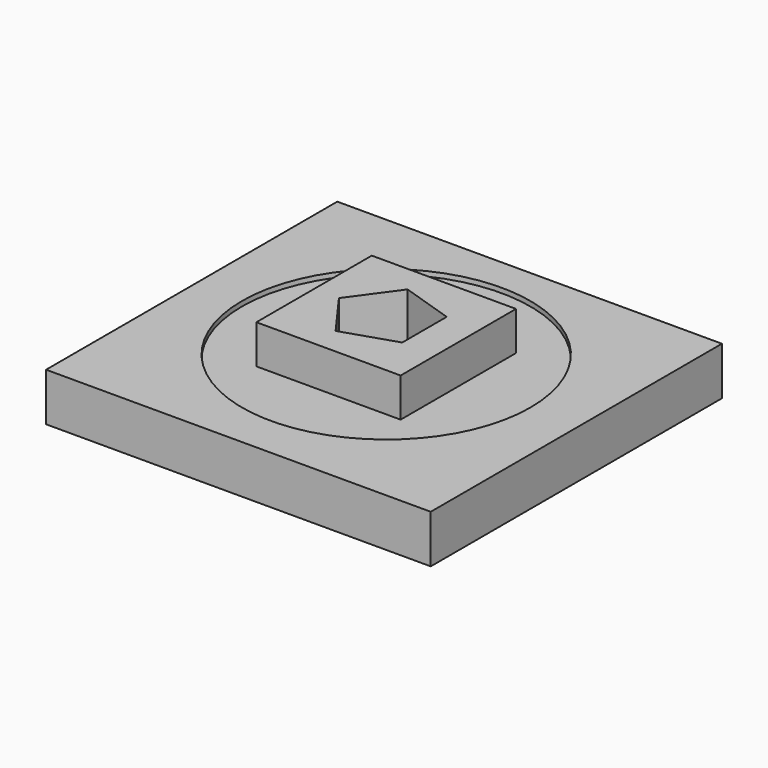
from build123d import *

# Parameters (mm, degrees)
F0_W     = 203.2
F0_H     = 192.284051628
F1_DEPTH = 25.4
F2_R     = 76.2
F3_DEPTH = 2.54
F4_W     = 76.2
F4_H     = 76.2
F5_DEPTH = 2.54
F7_DEPTH = 7.62
F8_DEPTH = 18


with BuildPart() as f1:
    # F0 (on Top) → F1 (new body)
    with BuildSketch(Plane.XY):
        with Locations((0.6476622075, -2.2640712559)):
            Rectangle(F0_W, F0_H)
    extrude(amount=F1_DEPTH)

    # F2 (on face) → F3 (cut)
    with BuildSketch(Plane.XY.offset(25.4)):
        Circle(F2_R)
    extrude(amount=-F3_DEPTH, mode=Mode.SUBTRACT)

    # F4 (on face) → F5 (join)
    with BuildSketch(Plane.XY.offset(22.86)):
        Rectangle(F4_W, F4_H)
    extrude(amount=F5_DEPTH)

    # F6 (on face) → F7 (cut)
    with BuildSketch(Plane.XY.offset(25.4)):
        Polygon((20.2086176723, -14.6824201711), (20.2086176723, 14.6824201711), (-7.7190050852, 23.756654874), (-24.9792251743, 0), (-7.7190050852, -23.756654874), align=None)
    extrude(amount=-F7_DEPTH, mode=Mode.SUBTRACT)

    # F8 (add): a face of the model
    f8_faces = [f1.faces().sort_by_distance(p)[0] for p in [
        (0, 37.0223692655, 25.4),
    ]]
    extrude(f8_faces, amount=F8_DEPTH)


solid = f1.part
